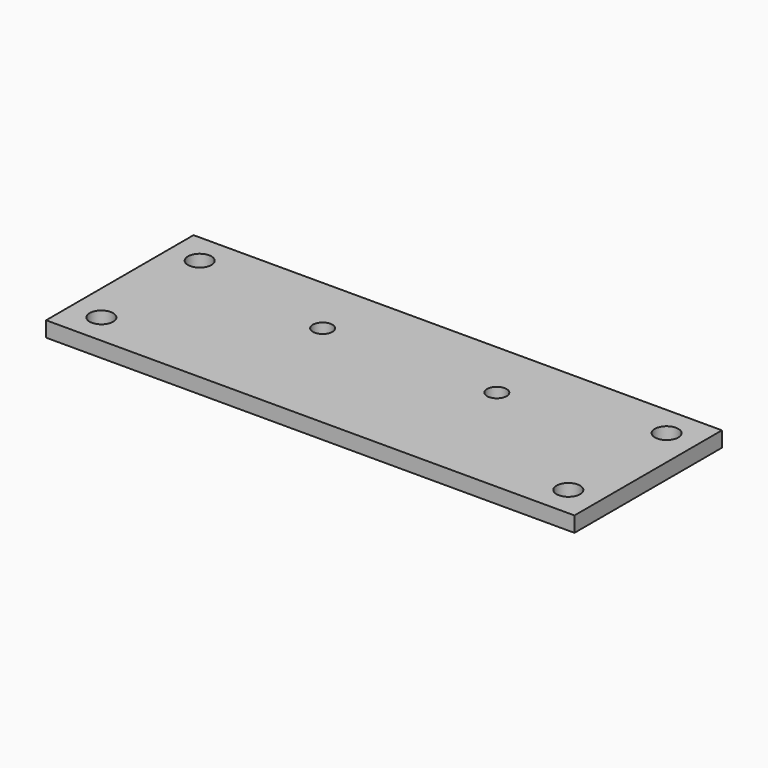
from build123d import *

# Parameters (mm, degrees)
F0_W     = 109.22
F0_H     = 38.1
F0_R     = 2.4257
F0_R_2   = 2.0193
F1_DEPTH = 3.175


with BuildPart() as f1:
    # F0 (on Top) → F1 (new body)
    with BuildSketch(Plane.XY):
        Rectangle(F0_W, F0_H)
        with Locations((-48.26, -12.7)):
            Circle(F0_R, mode=Mode.SUBTRACT)
        with Locations((48.26, -12.7)):
            Circle(F0_R, mode=Mode.SUBTRACT)
        with Locations((-18, 6.6548)):
            Circle(F0_R_2, mode=Mode.SUBTRACT)
        with Locations((-48.26, 12.7)):
            Circle(F0_R, mode=Mode.SUBTRACT)
        with Locations((18, 6.6548)):
            Circle(F0_R_2, mode=Mode.SUBTRACT)
        with Locations((48.26, 12.7)):
            Circle(F0_R, mode=Mode.SUBTRACT)
    extrude(amount=F1_DEPTH)


solid = f1.part
